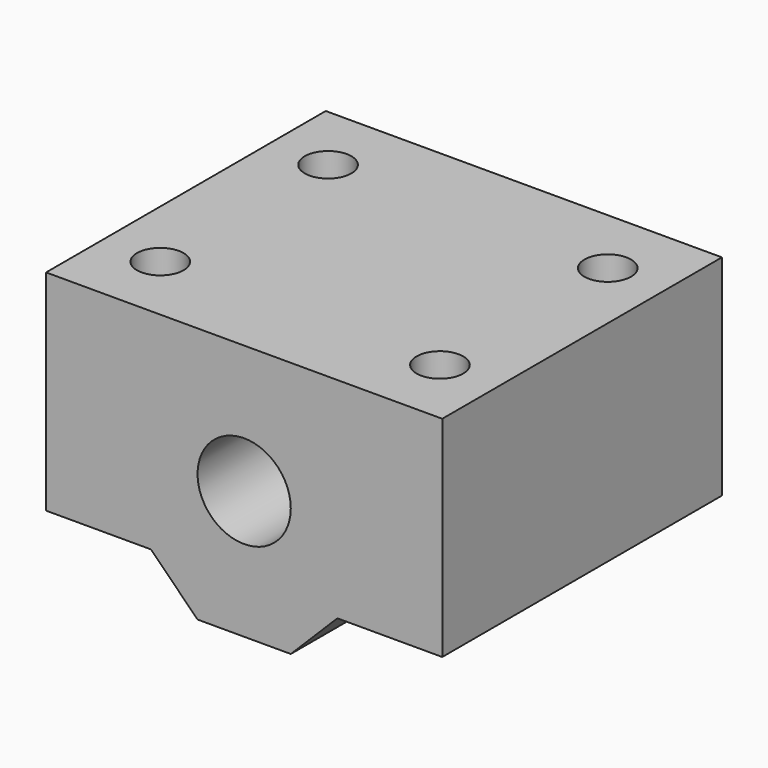
from build123d import *

# Parameters (mm, degrees)
F1_DEPTH = 30
F3_D     = 8
F5_D     = 4


with BuildPart() as f1:
    # F0 (on Front) → F1 (new body)
    with BuildSketch(Plane.XZ):
        Polygon((17, 0), (-17, 0), (-17, -18), (-8, -18), (-4, -22), (4, -22), (8, -18), (17, -18), align=None)
    extrude(amount=F1_DEPTH)

    # F3 (through all)
    with Locations(Plane(origin=(0, 0, 0), x_dir=(-1, 0, 0), z_dir=(0, 1, 0))):
        with Locations((0, -11)):
            Hole(F3_D / 2)

    # F5 (through all)
    with Locations(Plane.XY):
        with Locations((12, -24), (12, -6), (-12, -6), (-12, -24)):
            Hole(F5_D / 2)


solid = f1.part
